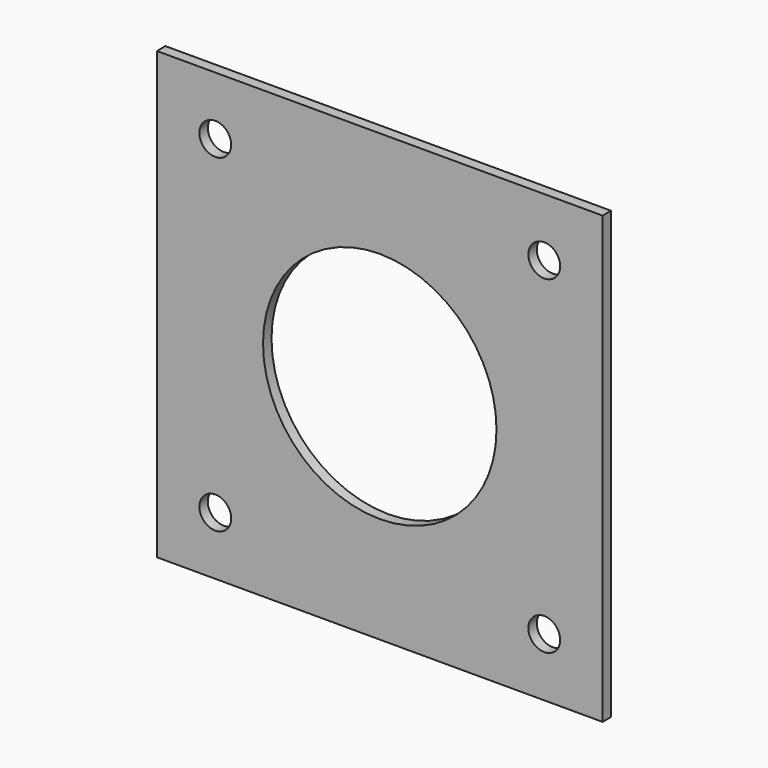
from build123d import *

# Parameters (mm, degrees)
F0_W     = 42
F0_H     = 42
F0_R     = 1.5
F0_R_2   = 11
F1_DEPTH = 1


with BuildPart() as f1:
    # F0 (on Front) → F1 (new body)
    with BuildSketch(Plane.XZ):
        with Locations((15.5, 15.5)):
            Rectangle(F0_W, F0_H)
        Circle(F0_R, mode=Mode.SUBTRACT)
        with Locations((31, 0)):
            Circle(F0_R, mode=Mode.SUBTRACT)
        with Locations((0, 31)):
            Circle(F0_R, mode=Mode.SUBTRACT)
        with Locations((15.5, 15.5)):
            Circle(F0_R_2, mode=Mode.SUBTRACT)
        with Locations((31, 31)):
            Circle(F0_R, mode=Mode.SUBTRACT)
    extrude(amount=F1_DEPTH)


solid = f1.part
